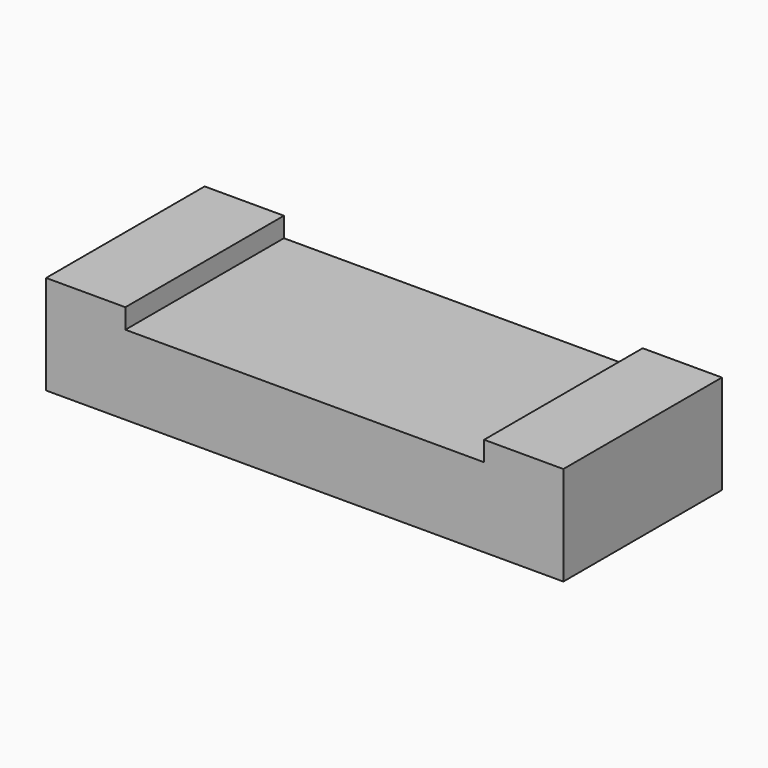
from build123d import *

# Parameters (mm, degrees)
F1_DEPTH = 12.7
F0_W     = 5.842
F0_H     = 12.7
F2_DEPTH = 12.7


with BuildPart() as f1:
    # F0 (on Front) → F1 (new body, symmetric)
    with BuildSketch(Plane.XZ):
        Polygon((5.842, 12.7), (5.842, 0), (66.294, 0), (66.294, 12.7), (56.134, 12.7), (56.134, 10.16), (10.16, 10.16), (10.16, 12.7), align=None)
    extrude(amount=F1_DEPTH, both=True)

    # F0 (on Front) → F2 (join, symmetric)
    with BuildSketch(Plane.XZ):
        with Locations((2.921, 6.35)):
            Rectangle(F0_W, F0_H)
    extrude(amount=F2_DEPTH, both=True)


solid = f1.part
